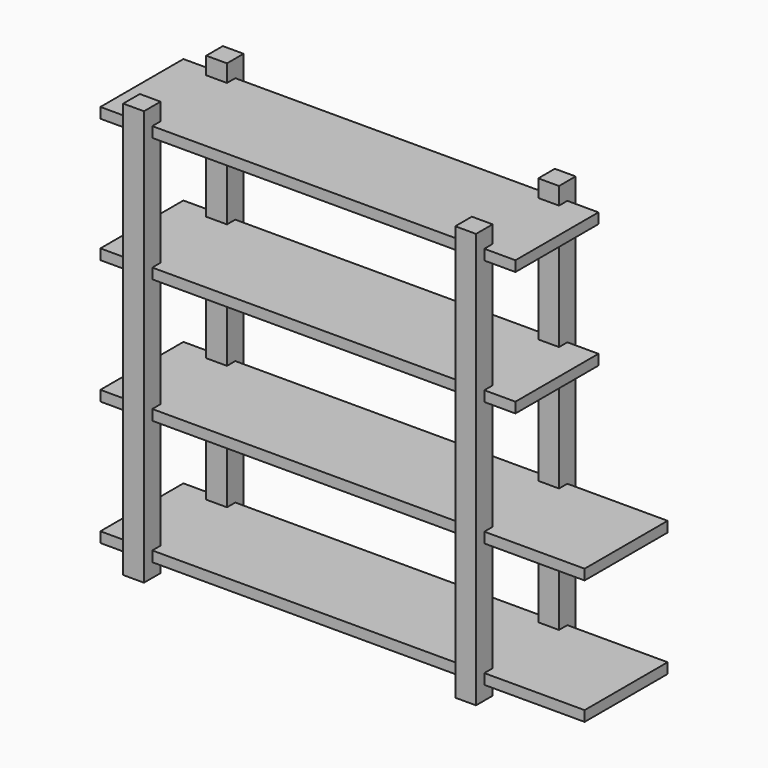
from build123d import *

# Parameters (mm, degrees)
F0_W           = 1400
F0_H           = 30
F6_DEPTH       = 300
F1_W           = 1400
F1_H           = 30
F2_W           = 1200
F2_H           = 30
F3_W           = 1200
F3_H           = 30
F7_DEPTH       = 300
F4_W           = 60
F4_H           = 1200
F8_DEPTH       = 30
F9_W           = 60
F9_H           = 60
F10_DEPTH      = 1160
F10_DEPTH_BACK = 40
F11_W          = 60
F11_H          = 60
F12_DEPTH      = 1160
F12_DEPTH_BACK = 40
F5_W           = 60
F5_H           = 1200
F13_DEPTH      = 30


with BuildPart() as f6:
    # F0 (on Front) → F6 (new body)
    with BuildSketch(Plane.XZ):
        with Locations((0, 15)):
            Rectangle(F0_W, F0_H)
    extrude(amount=F6_DEPTH)


with BuildPart() as f7:
    # F1 (on Front) + F2 (on Front) + F3 (on Front) → F7 (new body)
    with BuildSketch(Plane.XZ):
        with Locations((0, 375)):
            Rectangle(F1_W, F1_H)
    with BuildSketch(Plane.XZ):
        with Locations((-100, 735)):
            Rectangle(F2_W, F2_H)
    with BuildSketch(Plane.XZ):
        with Locations((-100, 1095)):
            Rectangle(F3_W, F3_H)
    extrude(amount=F7_DEPTH)


with BuildPart() as f8:
    # F4 (on Front) → F8 (new body, symmetric)
    with BuildSketch(Plane.XZ):
        with Locations((-580, 560)):
            Rectangle(F4_W, F4_H)
    extrude(amount=F8_DEPTH, both=True)


with BuildPart() as f10:
    # F9 (on Top) → F10 (new body, two sides)
    with BuildSketch(Plane.XY) as f10_sk:
        with Locations((-580, -300)):
            Rectangle(F9_W, F9_H)
    extrude(amount=F10_DEPTH)
    extrude(f10_sk.sketch, amount=-F10_DEPTH_BACK)


with BuildPart() as f12:
    # F11 (on Top) → F12 (new body, two sides)
    with BuildSketch(Plane.XY) as f12_sk:
        with Locations((380, -300)):
            Rectangle(F11_W, F11_H)
    extrude(amount=F12_DEPTH)
    extrude(f12_sk.sketch, amount=-F12_DEPTH_BACK)


with BuildPart() as f13:
    # F5 (on Front) → F13 (new body, symmetric)
    with BuildSketch(Plane.XZ):
        with Locations((380, 560)):
            Rectangle(F5_W, F5_H)
    extrude(amount=F13_DEPTH, both=True)


solid = Compound([f6.part, f7.part, f8.part, f10.part, f12.part, f13.part])
